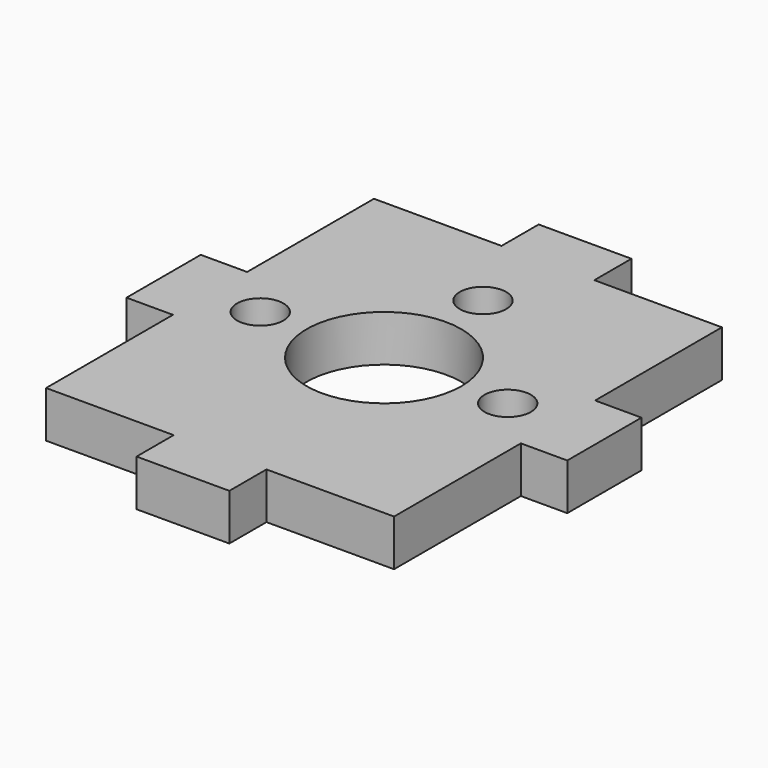
from build123d import *

# Parameters (mm, degrees)
SKETCH_W     = 22.5
SKETCH_H     = 26.5
SKETCH_R     = 5
SKETCH_R_2   = 1.5
PAD_DEPTH    = 1.5
SKETCH017_W  = 6
SKETCH017_H  = 3
PAD005_DEPTH = 3
SKETCH018_W  = 3
SKETCH018_H  = 6
PAD006_DEPTH = 3


with BuildPart() as part:
    # Sketch → Pad (new body, symmetric)
    with BuildSketch(Plane.XY):
        Rectangle(SKETCH_W, SKETCH_H)
        Circle(SKETCH_R, mode=Mode.SUBTRACT)
        with Locations((0, 8)):
            Circle(SKETCH_R_2, mode=Mode.SUBTRACT)
        with Locations((8, 0)):
            Circle(SKETCH_R_2, mode=Mode.SUBTRACT)
        with Locations((-8, 0)):
            Circle(SKETCH_R_2, mode=Mode.SUBTRACT)
    extrude(amount=PAD_DEPTH, both=True)

    # Sketch017 (on Face10 of Pad) → Pad005 (join)
    with BuildSketch(Plane.XY.offset(1.5)):
        with Locations((0, 14.75)):
            Rectangle(SKETCH017_W, SKETCH017_H)
        with Locations((0, -14.75)):
            Rectangle(SKETCH017_W, SKETCH017_H)
    extrude(amount=-PAD005_DEPTH)

    # Sketch018 (on Face18 of Pad005) → Pad006 (join)
    with BuildSketch(Plane.XY.offset(1.5)):
        with Locations((-12.75, 0)):
            Rectangle(SKETCH018_W, SKETCH018_H)
        with Locations((12.75, 0)):
            Rectangle(SKETCH018_W, SKETCH018_H)
    extrude(amount=-PAD006_DEPTH)


solid = part.part
